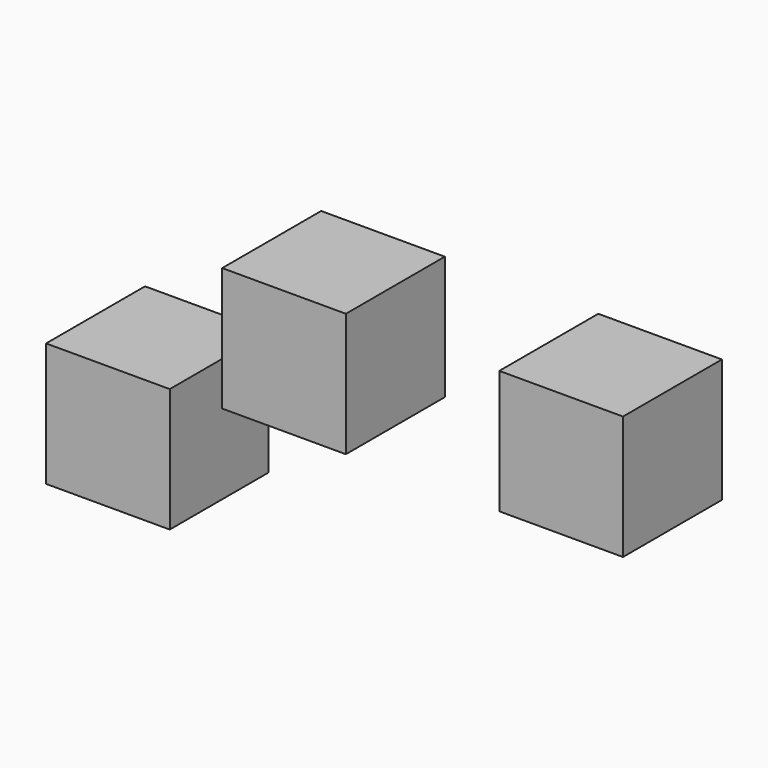
from build123d import *

# Parameters (mm, degrees)
BOX_W        = 10
BOX_H        = 10
BOX_DEPTH    = 10
BOX001_W     = 10
BOX001_H     = 10
BOX001_DEPTH = 10
BOX002_W     = 10
BOX002_H     = 10
BOX002_DEPTH = 10


with BuildPart() as cube:
    # Box → Box (new body)
    with BuildSketch(Plane(origin=(-19.449497, 6.509374, -2.474723), x_dir=(1, 0, 0), z_dir=(0, 0, 1))):
        with Locations((5, 5)):
            Rectangle(BOX_W, BOX_H)
    extrude(amount=BOX_DEPTH)


with BuildPart() as cube001:
    # Box001 → Box001 (new body)
    with BuildSketch(Plane(origin=(22.4429, -0.045339, 11.859516), x_dir=(1, 0, 0), z_dir=(0, 0, 1))):
        with Locations((5, 5)):
            Rectangle(BOX001_W, BOX001_H)
    extrude(amount=BOX001_DEPTH)


with BuildPart() as cube002:
    # Box002 → Box002 (new body)
    with BuildSketch(Plane.XY.offset(11.859516)):
        with Locations((5, 5)):
            Rectangle(BOX002_W, BOX002_H)
    extrude(amount=BOX002_DEPTH)


solid = Compound([cube.part, cube001.part, cube002.part])
